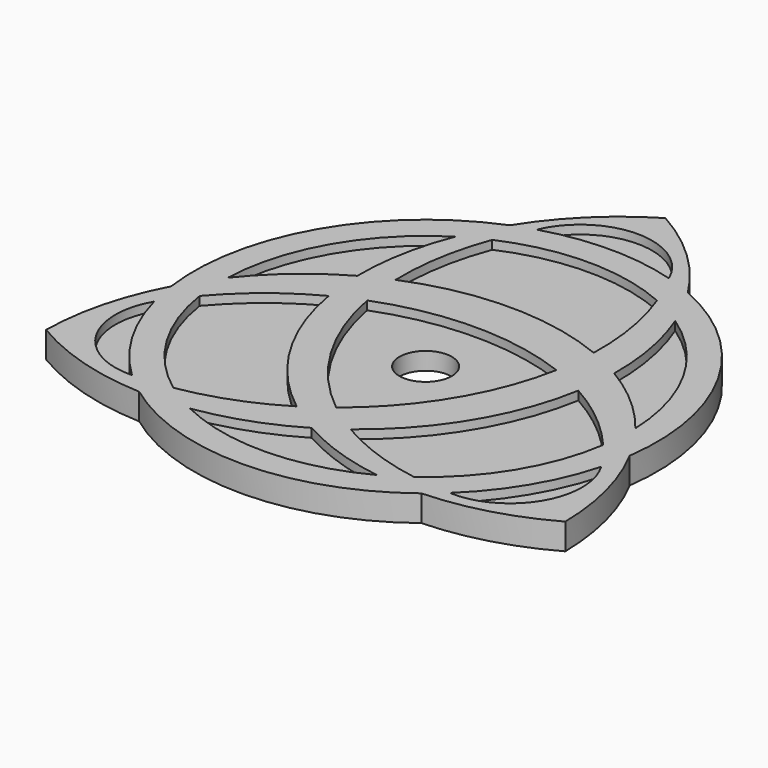
from build123d import *

# Parameters (mm, degrees)
F1_DEPTH = 3
F0_R     = 3
F2_DEPTH = 2


with BuildPart() as f1:
    # F0 (on Top) → F1 (new body)
    with BuildSketch(Plane.XY):
        with BuildLine():
            ThreePointArc((11.25214, 33.890213), (8.708016, 27.322944), (7.780511, 20.341445))
            ThreePointArc((7.780511, 20.341445), (14.513304, 17.391548), (21.764145, 16.184194))
            ThreePointArc((21.764145, 16.184194), (37.822516, 11.007044), (53.750097, 16.57358))
            ThreePointArc((53.750097, 16.57358), (60.709581, 17.653939), (67.219489, 20.341445))
            ThreePointArc((67.219489, 20.341445), (66.291984, 27.322944), (63.74786, 33.890213))
            ThreePointArc((63.74786, 33.890213), (60.604831, 50.467171), (48.092102, 61.785553))
            ThreePointArc((48.092102, 61.785553), (43.421082, 67.461288), (37.5, 71.81711))
            ThreePointArc((37.5, 71.81711), (31.917597, 67.523117), (27.502237, 62.036207))
            ThreePointArc((27.502237, 62.036207), (14.554727, 50.747459), (11.25214, 33.890213))
        make_face()
        with BuildLine():
            ThreePointArc((19.265964, 18.277601), (11.940787, 22.292555), (11.907016, 30.645813))
            ThreePointArc((11.907016, 30.645813), (14.730611, 23.952468), (19.265964, 18.277601))
        make_face(mode=Mode.SUBTRACT)
        with BuildLine():
            ThreePointArc((23.67555, 18.681209), (17.507341, 25.435346), (14.406809, 34.040685))
            ThreePointArc((14.406809, 34.040685), (18.562085, 38.076055), (23.409243, 41.247109))
            ThreePointArc((23.409243, 41.247109), (27.23329, 30.95675), (34.531886, 22.756426))
            ThreePointArc((34.531886, 22.756426), (29.302095, 20.190344), (23.67555, 18.681209))
        make_face(mode=Mode.SUBTRACT)
        with BuildLine():
            ThreePointArc((37.430295, 24.791457), (30.426886, 32.782013), (26.642998, 42.710704))
            ThreePointArc((26.642998, 42.710704), (37.455146, 44.722307), (48.273202, 42.742719))
            ThreePointArc((48.273202, 42.742719), (44.468059, 32.790805), (37.430295, 24.791457))
        make_face(mode=Mode.SUBTRACT)
        with BuildLine():
            ThreePointArc((48.428043, 16.864105), (37.926094, 14.153036), (27.332214, 16.479095))
            ThreePointArc((27.332214, 16.479095), (32.947915, 17.879382), (38.185772, 20.341445))
            ThreePointArc((38.185772, 20.341445), (43.147392, 18.132932), (48.428043, 16.864105))
        make_face(mode=Mode.SUBTRACT)
        with BuildLine():
            ThreePointArc((56.760192, 18.239808), (56.226023, 18.233984), (55.691836, 18.237658))
            ThreePointArc((55.691836, 18.237658), (60.25452, 23.927509), (63.092984, 30.645813))
            ThreePointArc((63.092984, 30.645813), (63.355566, 22.692448), (56.760192, 18.239808))
        make_face(mode=Mode.SUBTRACT)
        with BuildLine():
            ThreePointArc((60.593191, 34.040685), (57.473108, 25.403006), (51.263465, 18.636561))
            ThreePointArc((51.263465, 18.636561), (46.002569, 20.00513), (41.074412, 22.299312))
            ThreePointArc((41.074412, 22.299312), (48.432438, 30.527547), (52.280347, 40.873464))
            ThreePointArc((52.280347, 40.873464), (56.742477, 37.829003), (60.593191, 34.040685))
        make_face(mode=Mode.SUBTRACT)
        with BuildLine():
            ThreePointArc((14.164769, 38.353984), (17.277569, 49.175426), (25.092812, 57.281911))
            ThreePointArc((25.092812, 57.281911), (23.476687, 51.685478), (22.983141, 45.881312))
            ThreePointArc((22.983141, 45.881312), (18.203359, 42.551807), (14.164769, 38.353984))
        make_face(mode=Mode.SUBTRACT)
        with BuildLine():
            ThreePointArc((28.045515, 58.85123), (37.462209, 60.850822), (46.885326, 58.88172))
            ThreePointArc((46.885326, 58.88172), (48.391649, 53.254422), (48.784253, 47.442249))
            ThreePointArc((48.784253, 47.442249), (37.456571, 49.667609), (26.135441, 47.409155))
            ThreePointArc((26.135441, 47.409155), (26.532965, 53.223261), (28.045515, 58.85123))
        make_face(mode=Mode.SUBTRACT)
        with BuildLine():
            ThreePointArc((29.914241, 62.885763), (37.466692, 67.875429), (45.030068, 62.902338))
            ThreePointArc((45.030068, 62.902338), (37.470947, 63.994903), (29.914241, 62.885763))
        make_face(mode=Mode.SUBTRACT)
        with BuildLine():
            ThreePointArc((50.620744, 56.816013), (57.932111, 48.804474), (60.835231, 38.353984))
            ThreePointArc((60.835231, 38.353984), (57.096069, 42.292749), (52.70263, 45.485382))
            ThreePointArc((52.70263, 45.485382), (52.215911, 51.25253), (50.620744, 56.816013))
        make_face(mode=Mode.SUBTRACT)
    extrude(amount=F1_DEPTH)

    # F0 (on Top) → F2 (join)
    with BuildSketch(Plane.XY):
        with BuildLine():
            ThreePointArc((23.409243, 41.247109), (18.562085, 38.076055), (14.406809, 34.040685))
            ThreePointArc((14.406809, 34.040685), (17.507341, 25.435346), (23.67555, 18.681209))
            ThreePointArc((23.67555, 18.681209), (29.302095, 20.190344), (34.531886, 22.756426))
            ThreePointArc((34.531886, 22.756426), (27.23329, 30.95675), (23.409243, 41.247109))
        make_face()
        with BuildLine():
            ThreePointArc((19.265964, 18.277601), (14.730611, 23.952468), (11.907016, 30.645813))
            ThreePointArc((11.907016, 30.645813), (11.940787, 22.292555), (19.265964, 18.277601))
        make_face()
        with BuildLine():
            ThreePointArc((22.983141, 45.881312), (23.476687, 51.685478), (25.092812, 57.281911))
            ThreePointArc((25.092812, 57.281911), (17.277569, 49.175426), (14.164769, 38.353984))
            ThreePointArc((14.164769, 38.353984), (18.203359, 42.551807), (22.983141, 45.881312))
        make_face()
        with BuildLine():
            ThreePointArc((48.784253, 47.442249), (48.391649, 53.254422), (46.885326, 58.88172))
            ThreePointArc((46.885326, 58.88172), (37.462209, 60.850822), (28.045515, 58.85123))
            ThreePointArc((28.045515, 58.85123), (26.532965, 53.223261), (26.135441, 47.409155))
            ThreePointArc((26.135441, 47.409155), (37.456571, 49.667609), (48.784253, 47.442249))
        make_face()
        with BuildLine():
            ThreePointArc((29.914241, 62.885763), (37.470947, 63.994903), (45.030068, 62.902338))
            ThreePointArc((45.030068, 62.902338), (37.466692, 67.875429), (29.914241, 62.885763))
        make_face()
        with BuildLine():
            ThreePointArc((52.70263, 45.485382), (57.096069, 42.292749), (60.835231, 38.353984))
            ThreePointArc((60.835231, 38.353984), (57.932111, 48.804474), (50.620744, 56.816013))
            ThreePointArc((50.620744, 56.816013), (52.215911, 51.25253), (52.70263, 45.485382))
        make_face()
        with BuildLine():
            ThreePointArc((41.074412, 22.299312), (46.002569, 20.00513), (51.263465, 18.636561))
            ThreePointArc((51.263465, 18.636561), (57.473108, 25.403006), (60.593191, 34.040685))
            ThreePointArc((60.593191, 34.040685), (56.742477, 37.829003), (52.280347, 40.873464))
            ThreePointArc((52.280347, 40.873464), (48.432438, 30.527547), (41.074412, 22.299312))
        make_face()
        with BuildLine():
            ThreePointArc((38.185772, 20.341445), (32.947915, 17.879382), (27.332214, 16.479095))
            ThreePointArc((27.332214, 16.479095), (37.926094, 14.153036), (48.428043, 16.864105))
            ThreePointArc((48.428043, 16.864105), (43.147392, 18.132932), (38.185772, 20.341445))
        make_face()
        with BuildLine():
            ThreePointArc((63.092984, 30.645813), (60.25452, 23.927509), (55.691836, 18.237658))
            ThreePointArc((55.691836, 18.237658), (56.226023, 18.233984), (56.760192, 18.239808))
            ThreePointArc((56.760192, 18.239808), (63.355566, 22.692448), (63.092984, 30.645813))
        make_face()
        with BuildLine():
            ThreePointArc((48.273202, 42.742719), (37.455146, 44.722307), (26.642998, 42.710704))
            ThreePointArc((26.642998, 42.710704), (30.426886, 32.782013), (37.430295, 24.791457))
            ThreePointArc((37.430295, 24.791457), (44.468059, 32.790805), (48.273202, 42.742719))
        make_face()
        with Locations((37.5, 37.5)):
            Circle(F0_R, mode=Mode.SUBTRACT)
    extrude(amount=F2_DEPTH)


solid = f1.part
